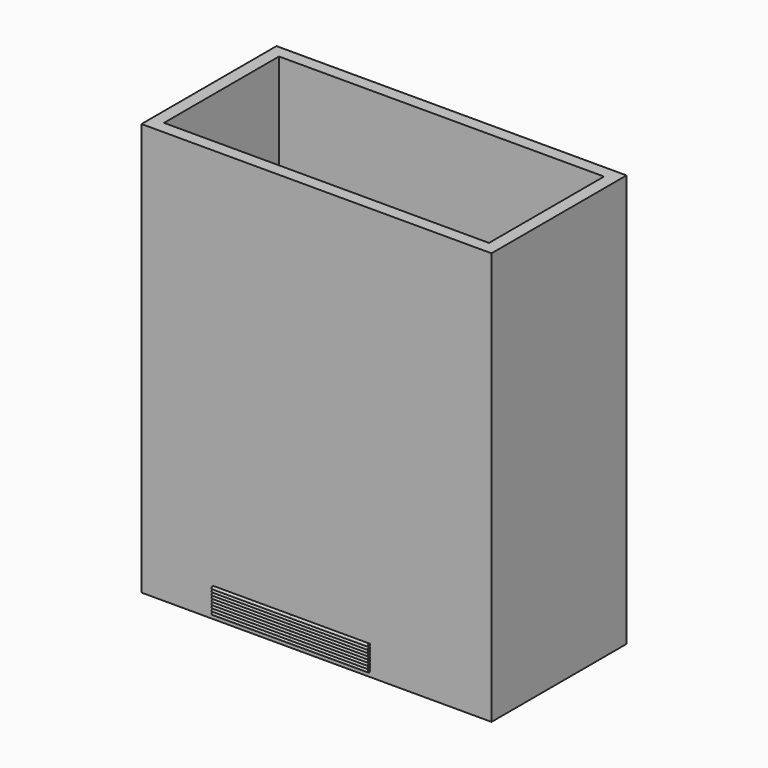
from build123d import *

# Parameters (mm, degrees)
F0_W     = 56
F0_H     = 27
F0_W_2   = 52
F0_H_2   = 23
F1_DEPTH = 66
F3_DEPTH = 12.5


with BuildPart() as f1:
    # F0 (on Top) → F1 (new body)
    with BuildSketch(Plane.XY):
        Rectangle(F0_W, F0_H)
        Rectangle(F0_W_2, F0_H_2, mode=Mode.SUBTRACT)
    extrude(amount=F1_DEPTH)


with BuildPart() as f3:
    # F2 (on Right) → F3 (new body, symmetric)
    with BuildSketch(Plane.YZ):
        with BuildLine():
            ThreePointArc((-18.394120121, 4.22389699), (-18.4600210952, 4.3829960157), (-18.619120121, 4.44889699))
            ThreePointArc((-18.619120121, 4.44889699), (-18.7782191468, 4.0647979642), (-18.394120121, 4.22389699))
        make_face()
    extrude(amount=F3_DEPTH, both=True)


with BuildPart() as f3b:
    # F2 (on Right) → F3, piece 2 (new body, symmetric)
    with BuildSketch(Plane.YZ):
        with BuildLine():
            ThreePointArc((-18.394120121, 4.67389699), (-18.4600210952, 4.8329960157), (-18.619120121, 4.89889699))
            ThreePointArc((-18.619120121, 4.89889699), (-18.844120121, 4.67389699), (-18.619120121, 4.44889699))
            ThreePointArc((-18.619120121, 4.44889699), (-18.4600210952, 4.5147979642), (-18.394120121, 4.67389699))
        make_face()
    extrude(amount=F3_DEPTH, both=True)


with BuildPart() as f3c:
    # F2 (on Right) → F3, piece 3 (new body, symmetric)
    with BuildSketch(Plane.YZ):
        with BuildLine():
            ThreePointArc((-18.394120121, 5.57389699), (-18.4600210952, 5.7329960157), (-18.619120121, 5.79889699))
            ThreePointArc((-18.619120121, 5.79889699), (-18.844120121, 5.57389699), (-18.619120121, 5.34889699))
            ThreePointArc((-18.619120121, 5.34889699), (-18.4600210952, 5.4147979642), (-18.394120121, 5.57389699))
        make_face()
    extrude(amount=F3_DEPTH, both=True)


with BuildPart() as f3d:
    # F2 (on Right) → F3, piece 4 (new body, symmetric)
    with BuildSketch(Plane.YZ):
        with BuildLine():
            ThreePointArc((-18.394120121, 5.12389699), (-18.4600210952, 5.2829960157), (-18.619120121, 5.34889699))
            ThreePointArc((-18.619120121, 5.34889699), (-18.844120121, 5.12389699), (-18.619120121, 4.89889699))
            ThreePointArc((-18.619120121, 4.89889699), (-18.4600210952, 4.9647979642), (-18.394120121, 5.12389699))
        make_face()
    extrude(amount=F3_DEPTH, both=True)


with BuildPart() as f3e:
    # F2 (on Right) → F3, piece 5 (new body, symmetric)
    with BuildSketch(Plane.YZ):
        with BuildLine():
            ThreePointArc((-18.394120121, 6.02389699), (-18.4600210952, 6.1829960157), (-18.619120121, 6.24889699))
            ThreePointArc((-18.619120121, 6.24889699), (-18.844120121, 6.02389699), (-18.619120121, 5.79889699))
            ThreePointArc((-18.619120121, 5.79889699), (-18.4600210952, 5.8647979642), (-18.394120121, 6.02389699))
        make_face()
    extrude(amount=F3_DEPTH, both=True)


with BuildPart() as f3f:
    # F2 (on Right) → F3, piece 6 (new body, symmetric)
    with BuildSketch(Plane.YZ):
        with BuildLine():
            ThreePointArc((-18.394120121, 6.47389699), (-18.4600210952, 6.6329960157), (-18.619120121, 6.69889699))
            ThreePointArc((-18.619120121, 6.69889699), (-18.844120121, 6.47389699), (-18.619120121, 6.24889699))
            ThreePointArc((-18.619120121, 6.24889699), (-18.4600210952, 6.3147979642), (-18.394120121, 6.47389699))
        make_face()
    extrude(amount=F3_DEPTH, both=True)


with BuildPart() as f3g:
    # F2 (on Right) → F3, piece 7 (new body, symmetric)
    with BuildSketch(Plane.YZ):
        with BuildLine():
            ThreePointArc((-18.619120121, 6.69889699), (-18.4600210952, 6.7647979642), (-18.394120121, 6.92389699))
            ThreePointArc((-18.394120121, 6.92389699), (-18.4600210952, 7.0829960157), (-18.619120121, 7.14889699))
            ThreePointArc((-18.619120121, 7.14889699), (-18.844120121, 6.92389699), (-18.619120121, 6.69889699))
        make_face()
    extrude(amount=F3_DEPTH, both=True)


with BuildPart() as f3h:
    # F2 (on Right) → F3, piece 8 (new body, symmetric)
    with BuildSketch(Plane.YZ):
        with BuildLine():
            ThreePointArc((-18.619120121, 7.59889699), (-18.844120121, 7.37389699), (-18.619120121, 7.14889699))
            ThreePointArc((-18.619120121, 7.14889699), (-18.4600210952, 7.2147979642), (-18.394120121, 7.37389699))
            ThreePointArc((-18.394120121, 7.37389699), (-18.4600210952, 7.5329960157), (-18.619120121, 7.59889699))
        make_face()
    extrude(amount=F3_DEPTH, both=True)


with BuildPart() as f3i:
    # F2 (on Right) → F3, piece 9 (new body, symmetric)
    with BuildSketch(Plane.YZ):
        with BuildLine():
            ThreePointArc((-18.394120121, 7.82389699), (-18.7782191468, 7.9829960157), (-18.619120121, 7.59889699))
            ThreePointArc((-18.619120121, 7.59889699), (-18.4600210952, 7.6647979642), (-18.394120121, 7.82389699))
        make_face()
    extrude(amount=F3_DEPTH, both=True)


solid = Compound([f1.part, f3.part, f3b.part, f3c.part, f3d.part, f3e.part, f3f.part, f3g.part, f3h.part, f3i.part])
